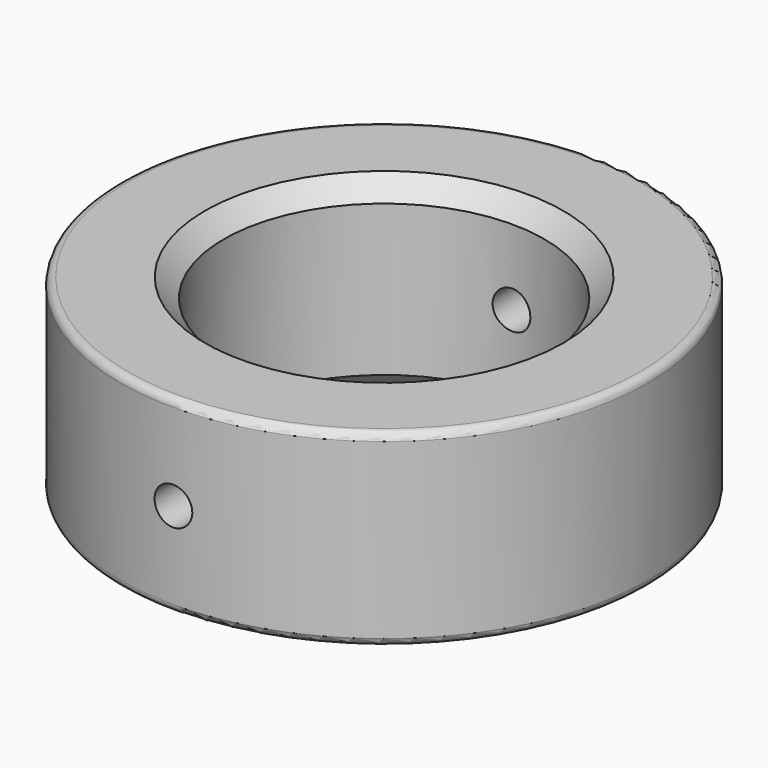
from build123d import *

# Parameters (mm, degrees)
F0_R          = 44.45
F0_R_2        = 26.9875
F1_DEPTH      = 31.75
F2_R          = 3.175
F3_DEPTH      = 44.451
F3_DEPTH_BACK = 44.451
F4_R          = 1.27
F5_SIZE       = 3.175


with BuildPart() as f1:
    # F0 (on Top) → F1 (new body)
    with BuildSketch(Plane.XY):
        Circle(F0_R)
        Circle(F0_R_2, mode=Mode.SUBTRACT)
    extrude(amount=F1_DEPTH)

    # F2 (on Front) → F3 (cut, two sides)
    with BuildSketch(Plane.XZ) as f3_sk:
        with Locations((0, 15.875)):
            Circle(F2_R)
    extrude(amount=-F3_DEPTH, mode=Mode.SUBTRACT)
    extrude(f3_sk.sketch, amount=F3_DEPTH_BACK, mode=Mode.SUBTRACT)

    # F4
    f4_edges = [f1.edges().sort_by_distance(p)[0] for p in [
        (-44.45, 0, 31.75),
        (-44.45, 0, 0),
    ]]
    fillet(f4_edges, radius=F4_R)

    # F5
    f5_edges = [f1.edges().sort_by_distance(p)[0] for p in [
        (-26.9875, 0, 31.75),
        (-26.9875, 0, 0),
    ]]
    chamfer(f5_edges, length=F5_SIZE)


solid = f1.part
